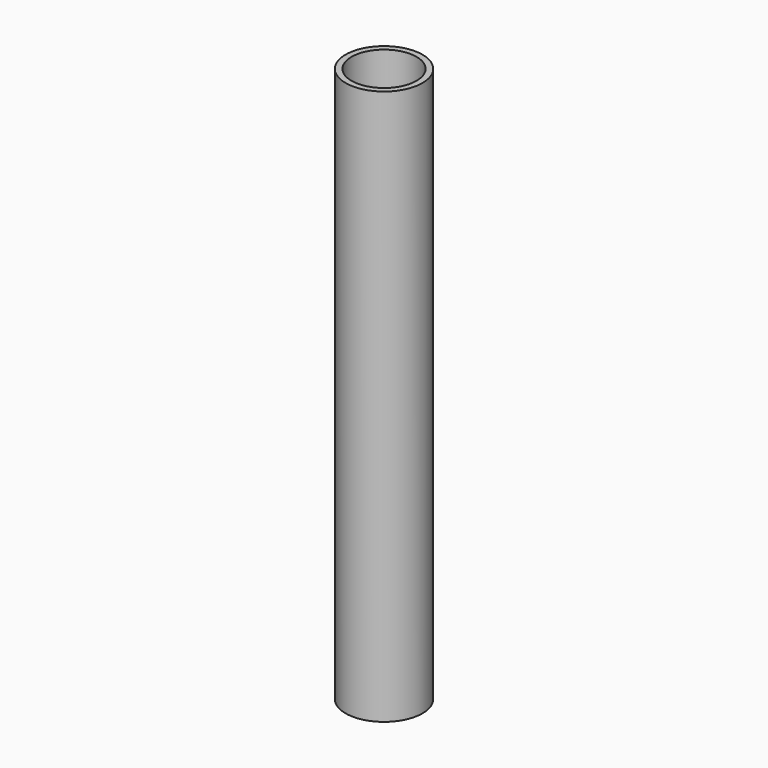
from build123d import *

# Parameters (mm, degrees)
F0_R     = 12.319
F0_R_2   = 10.414
F1_DEPTH = 177.8
F0_R_3   = 2.471855
F2_DEPTH = 12.7
F3_DEPTH = 25.4


with BuildPart() as f1:
    # F0 (on Top) → F1 (new body)
    with BuildSketch(Plane.XY):
        Circle(F0_R)
        Circle(F0_R_2, mode=Mode.SUBTRACT)
    extrude(amount=F1_DEPTH)

    # F0 (on Top) → F2 (join)
    with BuildSketch(Plane.XY):
        Circle(F0_R_2)
        Circle(F0_R_3, mode=Mode.SUBTRACT)
    extrude(amount=F2_DEPTH)

    # F0 (on Top) → F3 (cut)
    with BuildSketch(Plane.XY):
        Circle(F0_R_3)
    extrude(amount=-F3_DEPTH, mode=Mode.SUBTRACT)


solid = f1.part
